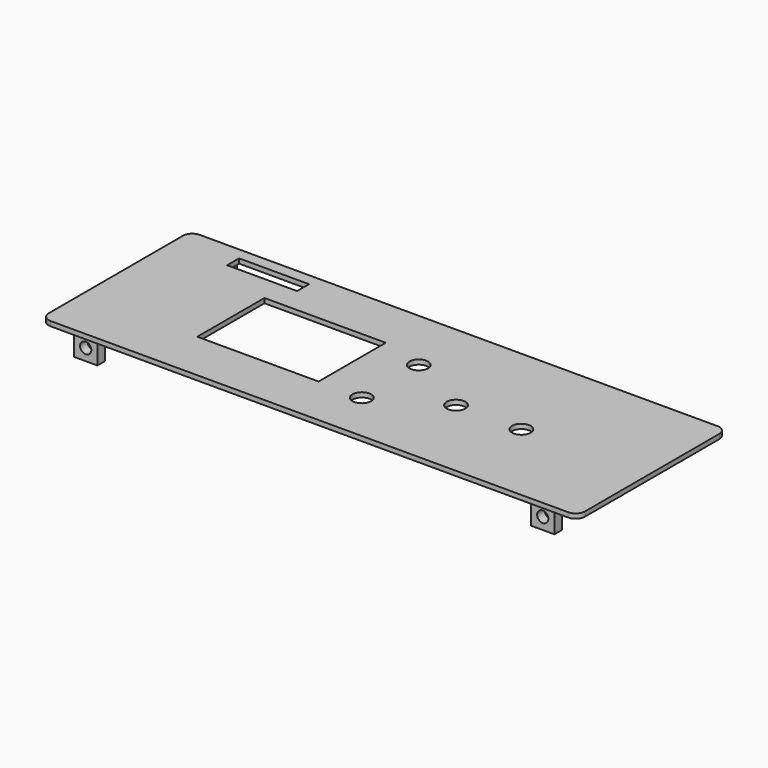
from build123d import *

# Parameters (mm, degrees)
SKETCH005_W     = 115
SKETCH005_H     = 40
PAD002_DEPTH    = 1
SKETCH006_W     = 5
SKETCH006_H     = 2
PAD003_DEPTH    = 5
SKETCH007_R     = 2
POCKET002_DEPTH = 5
SKETCH008_W     = 26
SKETCH008_H     = 18
POCKET003_DEPTH = 5
SKETCH009_W     = 15
SKETCH009_H     = 3.2
POCKET004_DEPTH = 5
SKETCH010_R     = 1.2
POCKET005_DEPTH = 38.701
FILLET002_R     = 2


with BuildPart() as part:
    # Sketch005 → Pad002 (new body)
    with BuildSketch(Plane.XY):
        with Locations((57.5, 20)):
            Rectangle(SKETCH005_W, SKETCH005_H)
    extrude(amount=PAD002_DEPTH)

    # Sketch006 → Pad003 (join)
    with BuildSketch(Plane(origin=(0, 0, 0), x_dir=(1, 0, 0), z_dir=(0, 0, -1))):
        with Locations((8.5, -2.3)):
            Rectangle(SKETCH006_W, SKETCH006_H)
        with Locations((106.5, -2.3)):
            Rectangle(SKETCH006_W, SKETCH006_H)
        with Locations((106.5, -37.7)):
            Rectangle(SKETCH006_W, SKETCH006_H)
        with Locations((8.5, -37.7)):
            Rectangle(SKETCH006_W, SKETCH006_H)
    extrude(amount=PAD003_DEPTH)

    # Sketch007 (on Face5 of Pad003) → Pocket002 (cut)
    with BuildSketch(Plane.XY.offset(1)):
        with Locations((60.085, 10.835)):
            Circle(SKETCH007_R)
        with Locations((60.085, 26.085)):
            Circle(SKETCH007_R)
        with Locations((74.085, 18.585)):
            Circle(SKETCH007_R)
        with Locations((88.085, 18.585)):
            Circle(SKETCH007_R)
    extrude(amount=-POCKET002_DEPTH, mode=Mode.SUBTRACT)

    # Sketch008 (on Face5 of Pocket002) → Pocket003 (cut)
    with BuildSketch(Plane.XY.offset(1)):
        with Locations((37.75, 19.9)):
            Rectangle(SKETCH008_W, SKETCH008_H)
    extrude(amount=-POCKET003_DEPTH, mode=Mode.SUBTRACT)

    # Sketch009 (on Face5 of Pocket003) → Pocket004 (cut)
    with BuildSketch(Plane.XY.offset(1)):
        with Locations((19.95, 35.87)):
            Rectangle(SKETCH009_W, SKETCH009_H)
    extrude(amount=-POCKET004_DEPTH, mode=Mode.SUBTRACT)

    # Sketch010 (on Face7 of Pocket004) → Pocket005 (cut, through all)
    with BuildSketch(Plane.XZ.offset(-1.3)):
        with Locations((8.5, -2.5)):
            Circle(SKETCH010_R)
        with Locations((106.5, -2.5)):
            Circle(SKETCH010_R)
    extrude(amount=-POCKET005_DEPTH, mode=Mode.SUBTRACT)

    # Fillet002
    fillet002_edges = [part.edges().sort_by_distance(p)[0] for p in [
        (0, 0, 0.5),
        (115, 0, 0.5),
        (115, 40, 0.5),
        (0, 40, 0.5),
    ]]
    fillet(fillet002_edges, radius=FILLET002_R)


with BuildPart() as part_1:
    # Body001 placement: moved
    add(part.part.moved(Location((0, 0, 12))))


solid = part_1.part
